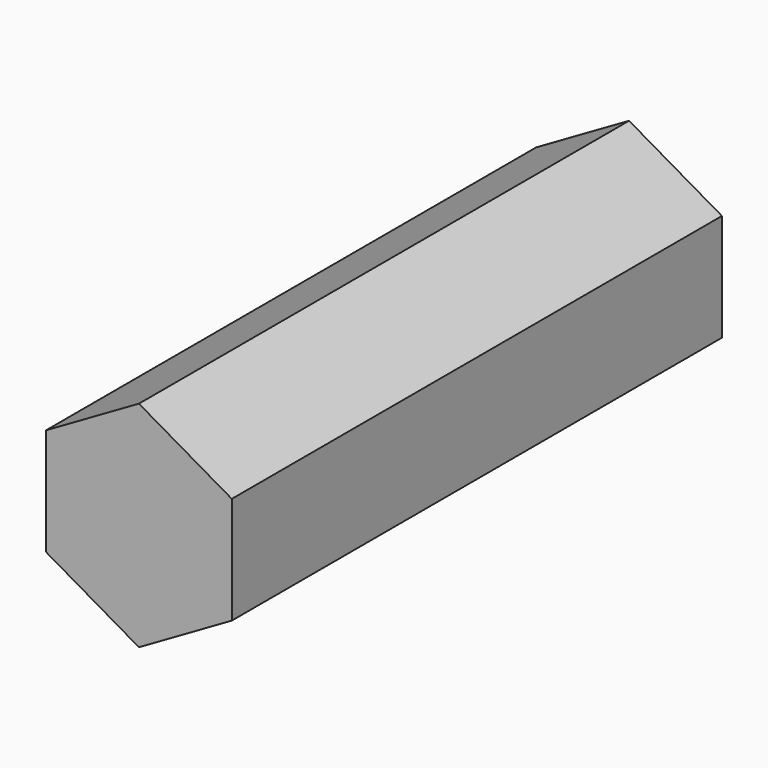
from build123d import *

# Parameters (mm, degrees)
PAD_DEPTH = 30


with BuildPart() as part:
    # Sketch (on XZ_Plane of Origin) → Pad (new body)
    with BuildSketch(Plane.XZ):
        Polygon((4.546633, -2.625), (4.546633, 2.625), (0, 5.25), (-4.546633, 2.625), (-4.546633, -2.625), (0, -5.25), align=None)
    extrude(amount=PAD_DEPTH)


solid = part.part
